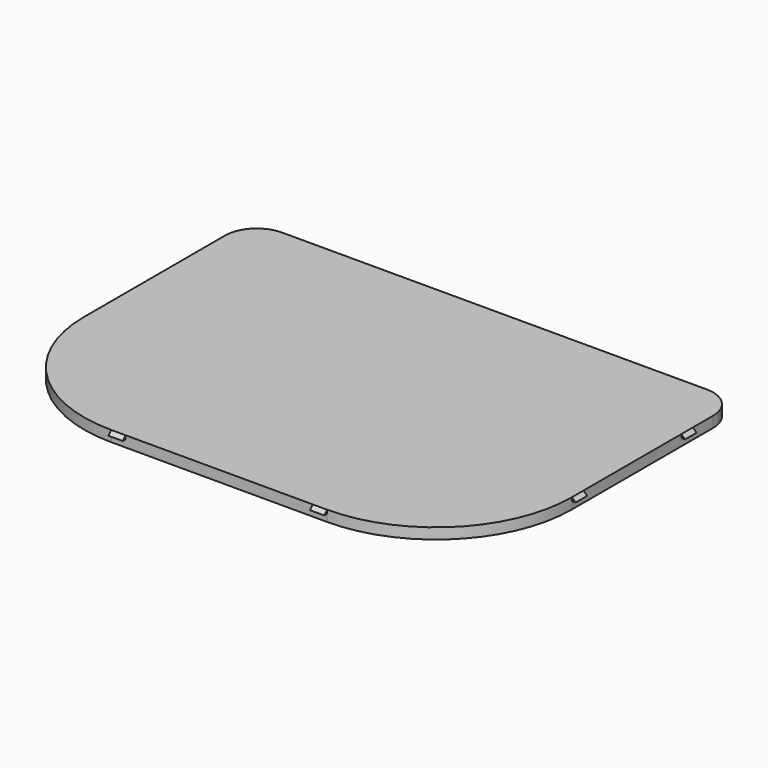
from build123d import *

# Parameters (mm, degrees)
PAD001_DEPTH                    = 3
PAD003_DEPTH                    = 2
PAD003_LINEARPATTERN004_2_DEPTH = 2
LINEARPATTERN005_COUNT          = 2
LINEARPATTERN005_PITCH          = 46.666667
PAD006_DEPTH                    = 4
LINEARPATTERN010_COUNT          = 2
LINEARPATTERN010_PITCH          = 56
PAD007_DEPTH                    = 4
PAD007_LINEARPATTERN011_2_DEPTH = 4


with BuildPart() as part:
    # Sketch003 → Pad001 (new body)
    with BuildSketch(Plane.XY):
        with BuildLine():
            Line((-67.8, -10.000001), (-67.8, 39.000038))
            ThreePointArc((-59.000039, 47.8), (-65.222552, 45.222551), (-67.8, 39.000038))
            Line((-59.000039, 47.8), (59.000041, 47.8))
            ThreePointArc((67.8, 39.000041), (65.22254, 45.22254), (59.000041, 47.8))
            Line((67.8, 39.000041), (67.8, -9.999998))
            ThreePointArc((30, -47.8), (56.728637, -36.728636), (67.8, -9.999998))
            Line((30, -47.8), (-29.999999, -47.8))
            ThreePointArc((-67.8, -10.000001), (-56.728636, -36.728637), (-29.999999, -47.8))
        make_face()
    extrude(amount=PAD001_DEPTH)

    # Sketch015 → Pad003 (join, symmetric)
    with BuildSketch(Plane.YZ):
        Polygon((47.8, 3), (47.8, 2), (48.8, 2), align=None)
    pad003 = extrude(amount=PAD003_DEPTH, both=True)

    # Sketch015 LinearPattern004 2 → Pad003 LinearPattern004 2 (add, symmetric)
    with BuildSketch(Plane.YZ.offset(46.666667)):
        Polygon((47.8, 3), (47.8, 2), (48.8, 2), align=None)
    pad003_linearpattern004_2 = extrude(amount=PAD003_LINEARPATTERN004_2_DEPTH, both=True)

    # LinearPattern005: Pad003, Pad003 LinearPattern004 2 ×2
    with Locations(*[(-i * LINEARPATTERN005_PITCH, 0, 0) for i in range(1, LINEARPATTERN005_COUNT)]):
        add(pad003)
        add(pad003_linearpattern004_2)

    # Sketch020 → Pad006 (join)
    with BuildSketch(Plane.YZ.offset(-30)):
        Polygon((-47.8, 3), (-47.8, 2), (-48.8, 2), align=None)
    pad006 = extrude(amount=PAD006_DEPTH)

    # LinearPattern010: Pad006 ×2
    with Locations(*[(i * LINEARPATTERN010_PITCH, 0, 0) for i in range(1, LINEARPATTERN010_COUNT)]):
        add(pad006)

    # Sketch021 → Pad007 (join)
    with BuildSketch(Plane.XZ.offset(10)):
        Polygon((68.8, 2), (67.8, 2), (67.8, 3), align=None)
    pad007 = extrude(amount=-PAD007_DEPTH)

    # Sketch021 LinearPattern011 2 → Pad007 LinearPattern011 2 (add)
    with BuildSketch(Plane.XZ.offset(-28)):
        Polygon((68.8, 2), (67.8, 2), (67.8, 3), align=None)
    pad007_linearpattern011_2 = extrude(amount=-PAD007_LINEARPATTERN011_2_DEPTH)

    # Mirrored004: Pad007, Pad007 LinearPattern011 2 across Sketch021 V_Axis
    add(pad007.mirror(Plane(origin=(0, -10, 0), x_dir=(0, -1, 0), z_dir=(1, 0, 0))))
    add(pad007_linearpattern011_2.mirror(Plane(origin=(0, -10, 0), x_dir=(0, -1, 0), z_dir=(1, 0, 0))))


solid = part.part
